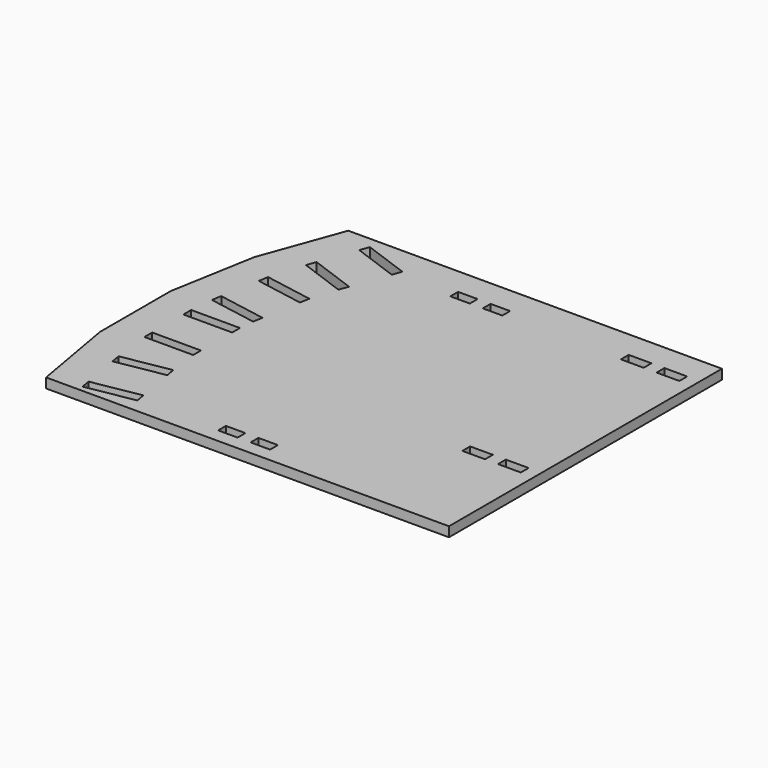
from build123d import *

# Parameters (mm, degrees)
F0_W     = 6
F0_H     = 3
F0_W_2   = 15
F0_W_3   = 7
F1_DEPTH = 3


with BuildPart() as f1:
    # F0 (on Top) → F1 (new body)
    with BuildSketch(Plane.XY):
        Polygon((-49.5, -52.5), (49.5, -52.5), (74.5, -52.5), (74.5, 52.5), (49.5, 52.5), (-40.5, 52.5), (-49.536567, 27.672236), (-54.188501, 1.289809), (-54.188501, -25.910191), align=None)
        Polygon((-40.172867, -47.809095), (-25.400751, -45.204372), (-24.879806, -48.158796), (-39.651922, -50.763518), align=None, mode=Mode.SUBTRACT)
        Polygon((-27.484529, -33.386679), (-42.256645, -35.991402), (-42.77759, -33.036979), (-28.005473, -30.432256), align=None, mode=Mode.SUBTRACT)
        with Locations((3, -46.704372)):
            Rectangle(F0_W, F0_H, mode=Mode.SUBTRACT)
        with Locations((-36.688501, -19.810191)):
            Rectangle(F0_W_2, F0_H, mode=Mode.SUBTRACT)
        with Locations((-36.688501, -4.810191)):
            Rectangle(F0_W_2, F0_H, mode=Mode.SUBTRACT)
        with Locations((13, -46.704372)):
            Rectangle(F0_W, F0_H, mode=Mode.SUBTRACT)
        with Locations((56, -18.369581)):
            Rectangle(F0_W_3, F0_H, mode=Mode.SUBTRACT)
        with Locations((67, -18.369581)):
            Rectangle(F0_W_3, F0_H, mode=Mode.SUBTRACT)
        Polygon((-43.056346, 6.835694), (-28.284229, 4.230971), (-28.805174, 1.276548), (-43.57729, 3.881271), align=None, mode=Mode.SUBTRACT)
        Polygon((-40.972567, 18.653387), (-40.451623, 21.60781), (-25.679507, 19.003088), (-26.200451, 16.048665), align=None, mode=Mode.SUBTRACT)
        Polygon((-22.137987, 29.854107), (-23.164047, 27.035029), (-37.259436, 32.165331), (-36.233376, 34.984409), align=None, mode=Mode.SUBTRACT)
        Polygon((-18.033745, 41.130419), (-32.129134, 46.260721), (-31.103074, 49.079799), (-17.007684, 43.949496), align=None, mode=Mode.SUBTRACT)
        with Locations((3, 42.630419)):
            Rectangle(F0_W, F0_H, mode=Mode.SUBTRACT)
        with Locations((13, 42.630419)):
            Rectangle(F0_W, F0_H, mode=Mode.SUBTRACT)
        with Locations((56, 42.630419)):
            Rectangle(F0_W_3, F0_H, mode=Mode.SUBTRACT)
        with Locations((67, 42.630419)):
            Rectangle(F0_W_3, F0_H, mode=Mode.SUBTRACT)
    extrude(amount=F1_DEPTH)


solid = f1.part
